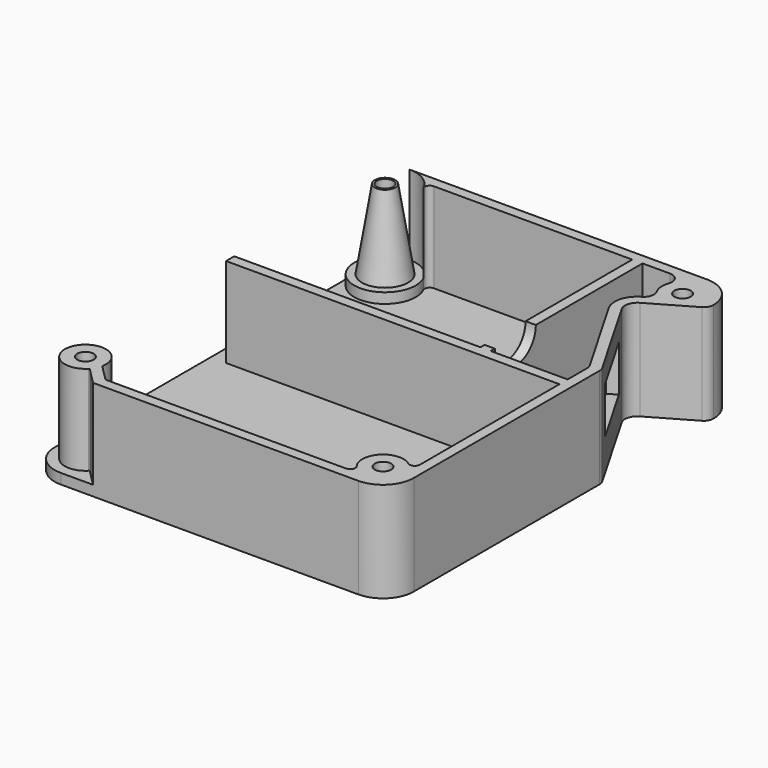
from build123d import *

# Parameters (mm, degrees)
SKETCH002_R     = 1.6
PAD001_DEPTH    = 19.5
POCKET001_DEPTH = 17.5
SKETCH005_R     = 3
POCKET002_DEPTH = 15
SKETCH006_R     = 3
POCKET003_DEPTH = 3.5
POCKET004_DEPTH = 2
SKETCH008_W     = 14
SKETCH008_H     = 9
POCKET005_DEPTH = 2


with BuildPart() as part:
    # Sketch002 → Pad001 (new body)
    with BuildSketch(Plane.XY):
        with BuildLine():
            Line((-35, 36.5000000001), (-35, -36.5))
            ThreePointArc((-35, -36.5), (-33.2426406871, -40.7426406871), (-29, -42.5))
            Line((-29, -42.5), (29, -42.5))
            ThreePointArc((29, -42.5), (33.2426406868, -40.7426406875), (35, -36.500000001))
            Line((35, -36.500000001), (35.0000000077, 8.799999999))
            ThreePointArc((35.0000000077, 8.799999999), (34.9358203402, 9.2874929726), (34.747655076, 9.7417641056))
            Line((24.9046932533, 26.7902740862), (34.747655076, 9.7417641056))
            ThreePointArc((25.7902740862, 30.0953067467), (24.6629889937, 28.6262002123), (24.9046932533, 26.7902740862))
            Line((25.7902740862, 30.0953067467), (34.0582358931, 34.8688167197))
            ThreePointArc((34.0582358931, 34.8688167197), (34.7476550681, 35.5582358947), (34.9999999999, 36.5000000017))
            ThreePointArc((34.9999999999, 36.5000000017), (33.2426406864, 40.7426406877), (28.9999999999, 42.5))
            Line((28.9999999999, 42.5), (-29.0000000001, 42.5))
            ThreePointArc((-29.0000000001, 42.5), (-33.2426406871, 40.7426406871), (-35, 36.5000000001))
        make_face()
        with Locations((28.9999999999, 36.5)):
            Circle(SKETCH002_R, mode=Mode.SUBTRACT)
        with Locations((29, -36.5)):
            Circle(SKETCH002_R, mode=Mode.SUBTRACT)
        with Locations((-29, -36.5)):
            Circle(SKETCH002_R, mode=Mode.SUBTRACT)
        with Locations((-29.0000000001, 36.5000000001)):
            Circle(SKETCH002_R, mode=Mode.SUBTRACT)
    extrude(amount=PAD001_DEPTH)

    # Sketch003 (on Face19 of Pad001) → Pocket001 (cut)
    with BuildSketch(Plane.XY.offset(19.5)):
        with BuildLine():
            ThreePointArc((25.2287638336, 37.8333333333), (25.0151381406, 36.1523277954), (25.516649593, 34.5337167186))
            ThreePointArc((24.7749743893, 31.8185242701), (25.7042911697, 33.0235677135), (25.516649593, 34.5337167186))
            ThreePointArc((24.7749743893, 31.8185242701), (22.7240689546, 29.1457322713), (23.1638091612, 25.8055737838))
            Line((23.1638091612, 25.8055737838), (32.7320508154, 9.2328930931))
            ThreePointArc((33.0000000077, 8.2328930934), (32.9318516603, 8.7505311835), (32.7320508154, 9.2328930931))
            Line((33.0000000077, 8.2328930934), (33.0000000077, 3.5))
            Line((18.0000000077, 3.5), (33.0000000077, 3.5))
            Line((18.0000000077, 40.5), (18.0000000077, 3.5))
            Line((23.3431457504, 40.5), (18.0000000077, 40.5))
            ThreePointArc((25.2287638336, 37.8333333333), (24.9761389123, 39.6547005384), (23.3431457504, 40.5))
        make_face()
        with BuildLine():
            ThreePointArc((31.4000000061, -33.3000000046), (26.171572878, -33.6715728725), (25.8, -38.9))
            ThreePointArc((25, -40.5), (25.894427191, -39.9472135955), (25.8, -38.9))
            Line((25, -40.5), (-21.8058862217, -40.5))
            ThreePointArc((-21.947307578, -40.4414213562), (-21.8824229082, -40.4847759065), (-21.8058862217, -40.5))
            Line((-21.947307578, -40.4414213562), (-25.0071533734, -37.3815755608))
            ThreePointArc((-25.0626019212, -37.2049087662), (-25.0565540108, -37.3000454956), (-25.0071533734, -37.3815755608))
            ThreePointArc((-25.0626019212, -37.2049087662), (-32.5456214666, -34.648360614), (-26.1715722902, -39.3284265397))
            ThreePointArc((-25.8887295485, -39.3284265105), (-26.0301509254, -39.2698478667), (-26.1715722902, -39.3284265397))
            Line((-22.7757347027, -42.4414213562), (-25.8887295485, -39.3284265105))
            ThreePointArc((-22.7757347027, -42.4414213562), (-22.710850033, -42.4847759065), (-22.6343133465, -42.5))
            Line((-29, -42.5), (-22.6343133465, -42.5))
            ThreePointArc((-35, -36.5), (-33.2426406871, -40.7426406871), (-29, -42.5))
            Line((-35, -36.5), (-35, 36.4999997364))
            ThreePointArc((-35, 36.4999997364), (-27.6821008816, 30.6465273631), (-23.5789525827, 39.0714285714))
            ThreePointArc((-22.6754446798, 40.5), (-23.5205989345, 40.0345224838), (-23.5789525827, 39.0714285714))
            Line((16.0000000077, 40.5), (-22.6754446798, 40.5))
            Line((16.0000000077, 40.5), (16.0000000077, 3.5))
            Line((-32, 3.5), (16.0000000077, 3.5))
            Line((-32, 1.5), (-32, 3.5))
            Line((33.0000000077, 1.5), (-32, 1.5))
            Line((33.0000000077, 1.5), (33.0000000077, -32.5000000058))
            ThreePointArc((31.4000000061, -33.3000000046), (32.4472136023, -33.3944271972), (33.0000000077, -32.5000000058))
        make_face()
    extrude(amount=-POCKET001_DEPTH, mode=Mode.SUBTRACT)

    # Sketch004 (on DatumLine) → Groove (revolve, cut)
    with BuildSketch(Plane(origin=(-29.0000000001, 36.5000000001, 19.5), x_dir=(1, 0, 0), z_dir=(0, -1, 0))):
        Polygon((-5.9999999999, 0), (-5.9999999999, -15.5), (-4.4999999999, -15.5), (-2, 0), align=None)
    revolve(axis=Axis((-29.0000000001, 36.5000000001, 19.5), (0, 0, 1)), mode=Mode.SUBTRACT)

    # Sketch005 (on Face4 of Groove) → Pocket002 (cut)
    with BuildSketch(Plane(origin=(0, 0, 0), x_dir=(1, 0, 0), z_dir=(0, 0, -1))):
        with Locations((29, -36.5)):
            Circle(SKETCH005_R)
        with Locations((29, 36.5)):
            Circle(SKETCH005_R)
        with Locations((-29, 36.5)):
            Circle(SKETCH005_R)
    extrude(amount=-POCKET002_DEPTH, mode=Mode.SUBTRACT)

    # Sketch006 (on Face4 of Pocket002) → Pocket003 (cut)
    with BuildSketch(Plane(origin=(0, 0, 0), x_dir=(1, 0, 0), z_dir=(0, 0, -1))):
        with Locations((-29, -36.5)):
            Circle(SKETCH006_R)
    extrude(amount=-POCKET003_DEPTH, mode=Mode.SUBTRACT)

    # Sketch007 (on Face35 of Pocket003) → Pocket004 (cut)
    with BuildSketch(Plane(origin=(16.0000000077, 0, 0), x_dir=(0, -1, 0), z_dir=(-1, 0, 0))):
        with BuildLine():
            ThreePointArc((-14.5, 19.5), (-9.5, 14.5), (-4.5, 19.5))
            Line((-14.5, 19.5), (-4.5, 19.5))
        make_face()
    extrude(amount=-POCKET004_DEPTH, mode=Mode.SUBTRACT)

    # Sketch008 (on Face6 of Pocket004) → Pocket005 (cut)
    with BuildSketch(Plane(origin=(30.2790489079, 17.4816170309, 0), x_dir=(-0.4999999999, 0.8660254039, 0), z_dir=(0.8660254039, 0.4999999999, 0))):
        with Locations((0.9057494867, 10.75)):
            Rectangle(SKETCH008_W, SKETCH008_H)
    extrude(amount=-POCKET005_DEPTH, mode=Mode.SUBTRACT)


solid = part.part
